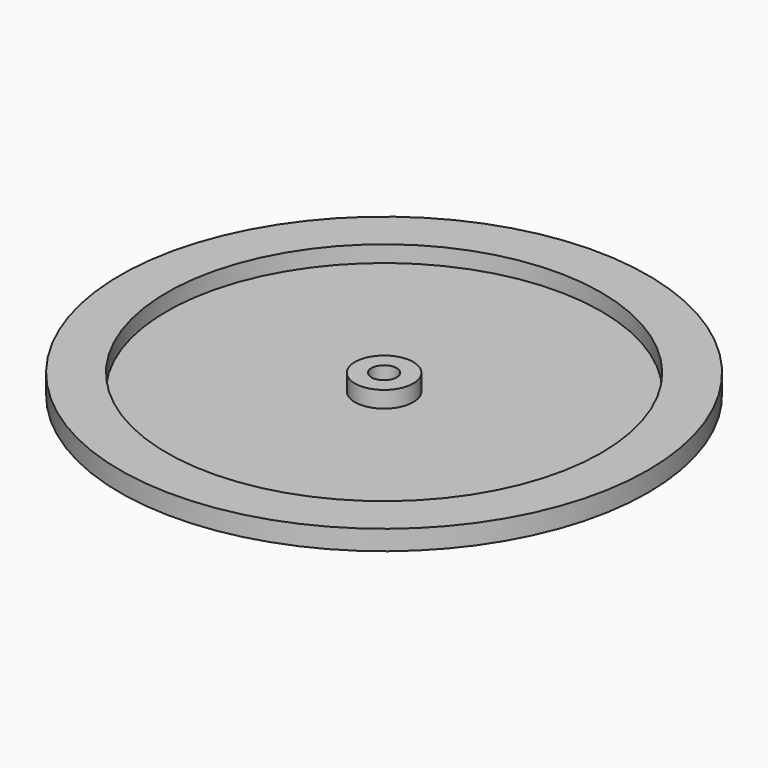
from build123d import *

# Parameters (mm, degrees)
F0_R     = 48
F0_R_2   = 39.5
F0_R_3   = 5.3
F0_R_4   = 2.3
F1_DEPTH = 3
F2_DEPTH = 0.6


with BuildPart() as f1:
    # F0 (on Top) → F1 (new body)
    with BuildSketch(Plane.XY):
        Circle(F0_R)
        Circle(F0_R_2, mode=Mode.SUBTRACT)
        Circle(F0_R_3)
        Circle(F0_R_4, mode=Mode.SUBTRACT)
    extrude(amount=F1_DEPTH)

    # F0 (on Top) → F2 (join)
    with BuildSketch(Plane.XY):
        Circle(F0_R)
        Circle(F0_R_2, mode=Mode.SUBTRACT)
        Circle(F0_R_2)
        Circle(F0_R_3, mode=Mode.SUBTRACT)
        Circle(F0_R_3)
        Circle(F0_R_4, mode=Mode.SUBTRACT)
    extrude(amount=-F2_DEPTH)


solid = f1.part
